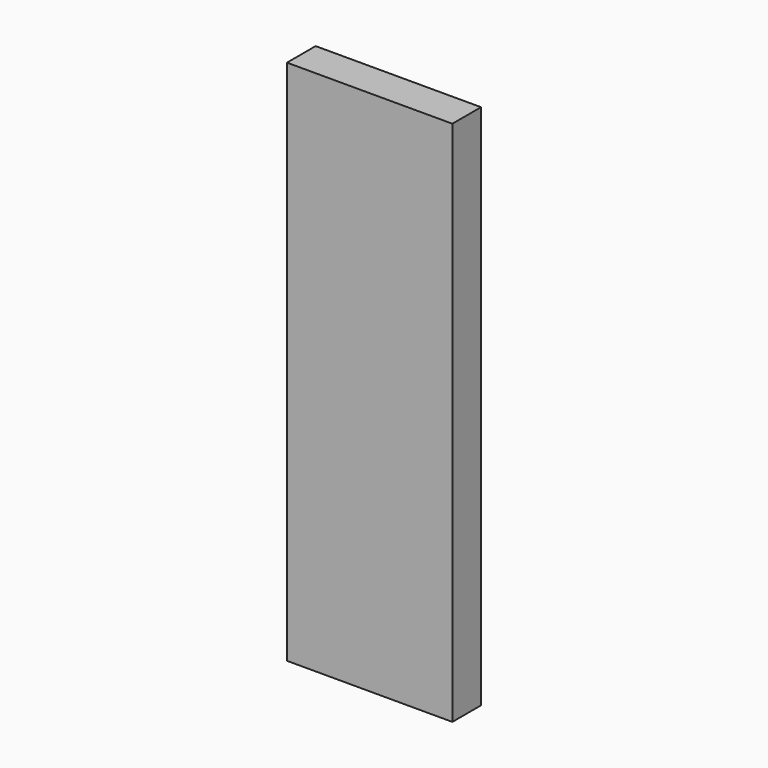
from build123d import *

# Parameters (mm, degrees)
F0_W     = 33.228198
F0_H     = 105.805572
F1_DEPTH = 3.6


with BuildPart() as f1:
    # F0 (on Front) → F1 (new body, symmetric)
    with BuildSketch(Plane.XZ):
        with Locations((-12.824918, -5.538033)):
            Rectangle(F0_W, F0_H)
        with Locations((-12.824918, -5.538033)):
            Rectangle(F0_W, F0_H)
    extrude(amount=F1_DEPTH, both=True)


solid = f1.part
